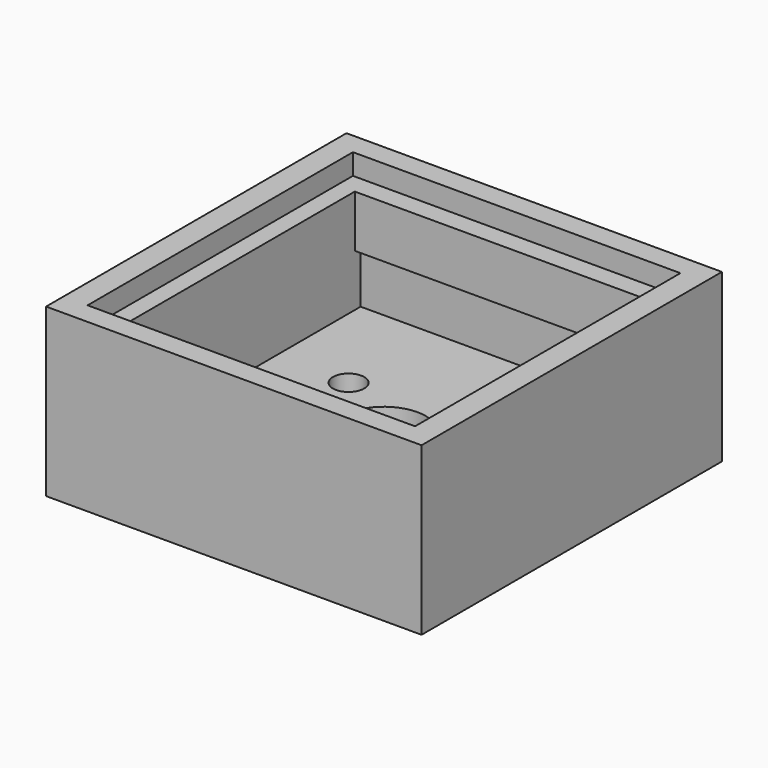
from build123d import *

# Parameters (mm, degrees)
F0_W     = 14
F0_H     = 14
F0_R     = 0.9
F0_R_2   = 0.75
F0_R_3   = 2
F1_DEPTH = 2
F0_W_2   = 15.7
F0_H_2   = 15.9
F3_DEPTH = 7
F0_W_3   = 18
F0_H_3   = 18
F4_DEPTH = 8
F5_W     = 14
F5_H     = 14.7
F6_DEPTH = 2.5


with BuildPart() as f1:
    # F0 (on Top) → F1 (new body)
    with BuildSketch(Plane.XY):
        Rectangle(F0_W, F0_H)
        with Locations((-5.1, 0)):
            Circle(F0_R, mode=Mode.SUBTRACT)
        with Locations((-3.5, 2.25)):
            Circle(F0_R_2, mode=Mode.SUBTRACT)
        Circle(F0_R_3, mode=Mode.SUBTRACT)
        with Locations((5.1, 0)):
            Circle(F0_R, mode=Mode.SUBTRACT)
        with Locations((2, 5.5)):
            Circle(F0_R_2, mode=Mode.SUBTRACT)
    extrude(amount=F1_DEPTH)

    # F0 (on Top) → F3 (join)
    with BuildSketch(Plane.XY):
        Rectangle(F0_W_2, F0_H_2)
        Rectangle(F0_W, F0_H, mode=Mode.SUBTRACT)
    extrude(amount=F3_DEPTH)

    # F0 (on Top) → F4 (join)
    with BuildSketch(Plane.XY):
        Rectangle(F0_W_3, F0_H_3)
        Rectangle(F0_W_2, F0_H_2, mode=Mode.SUBTRACT)
    extrude(amount=F4_DEPTH)

    # F5 (on offset) → F6 (cut, through all)
    with BuildSketch(Plane.XY.offset(4.5)):
        Rectangle(F5_W, F5_H)
    extrude(amount=-F6_DEPTH, mode=Mode.SUBTRACT)


solid = f1.part
